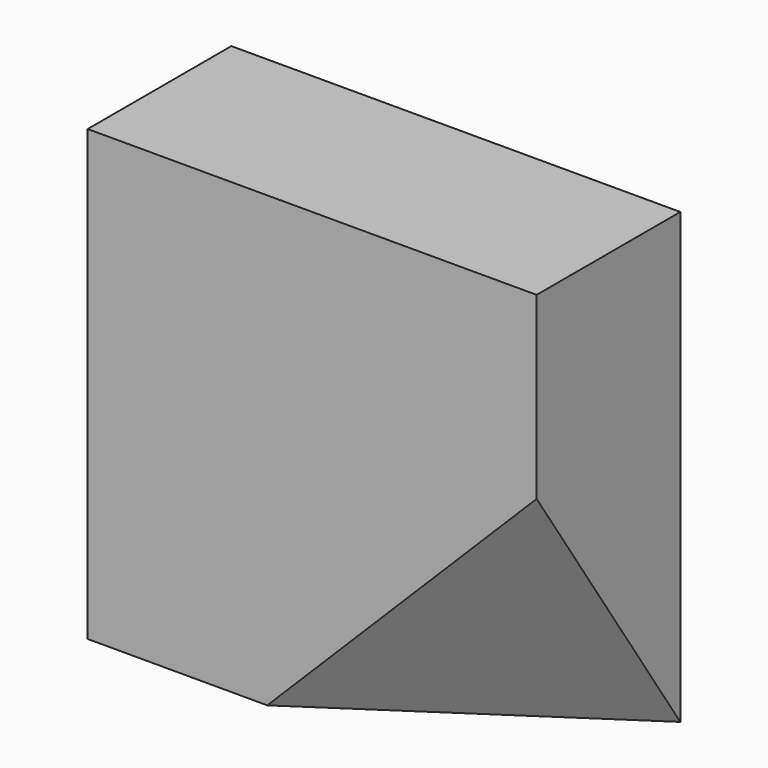
from build123d import *

# Parameters (mm, degrees)
F1_DEPTH = 10
F5_R     = 14.9247809803
F6_DEPTH = 16.2


with BuildPart() as f1:
    # F0 (on Front) → F1 (new body)
    with BuildSketch(Plane.XZ):
        Polygon((0, 25), (0, 0), (10, 0), (25, 15), (25, 25), align=None)
        Polygon((25, 15), (10, 0), (25, 0), align=None)
    extrude(amount=F1_DEPTH)

    # F5 (on 3pt) → F6 (cut)
    with BuildSketch(Plane(origin=(5.8823529412, -8.8235294118, -5.8823529412), x_dir=(-0.8744746322, -0.4036036764, -0.2690691176), z_dir=(-0.4850712501, 0.7276068751, 0.4850712501))):
        with Locations((-17.7520383149, 4.152554553)):
            Circle(F5_R)
    extrude(amount=-F6_DEPTH, mode=Mode.SUBTRACT)


solid = f1.part
